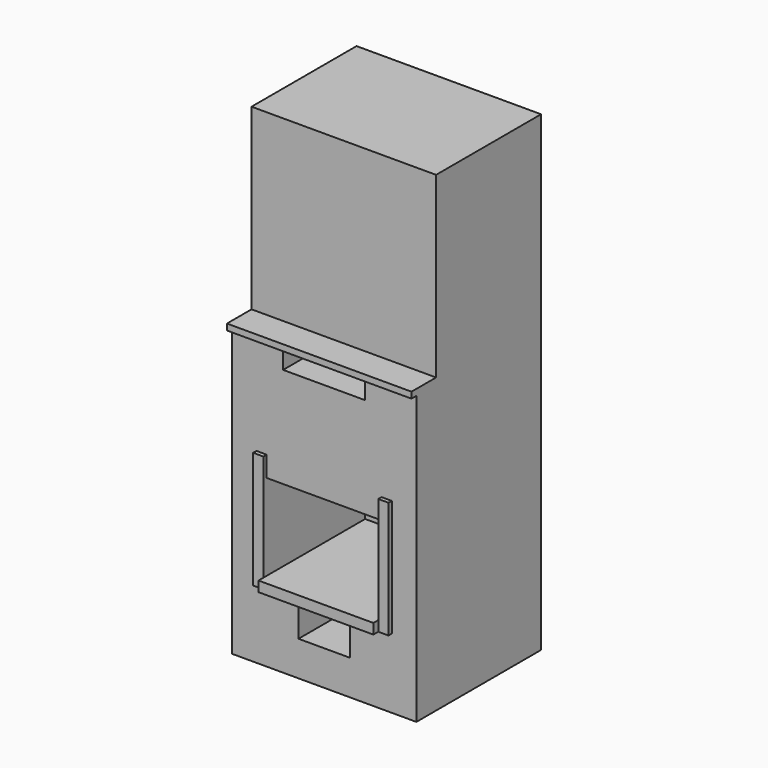
from build123d import *

# Parameters (mm, degrees)
F0_W      = 900
F0_H      = 760
F1_DEPTH  = 1400
F2_W      = 900
F2_H      = 640
F3_DEPTH  = 900
F4_W      = 900
F4_H      = 120
F4_H_2    = 30
F5_DEPTH  = 30
F7_DEPTH  = 20
F8_W      = 560
F8_H      = 50
F9_DEPTH  = 50
F10_W     = 250
F10_H     = 170
F11_DEPTH = 600
F12_W     = 560
F12_H     = 420
F13_DEPTH = 600
F14_W     = 400
F14_H     = 100
F15_DEPTH = 300


with BuildPart() as f1:
    # F0 (on Top) → F1 (new body)
    with BuildSketch(Plane.XY):
        with Locations((-172.5741102403, -380)):
            Rectangle(F0_W, F0_H)
    extrude(amount=F1_DEPTH)

    # F2 (on face) → F3 (join)
    with BuildSketch(Plane.XY.offset(1400)):
        with Locations((-172.5741102403, -320)):
            Rectangle(F2_W, F2_H)
    extrude(amount=F3_DEPTH)

    # F4 (on face) → F5 (join)
    with BuildSketch(Plane.XY.offset(1400)):
        with Locations((-172.5741102403, -700)):
            Rectangle(F4_W, F4_H)
        with Locations((-172.5741102403, -775)):
            Rectangle(F4_W, F4_H_2)
    extrude(amount=F5_DEPTH)

    # F6 (on face) → F7 (join)
    with BuildSketch(Plane.XZ.offset(760)):
        Polygon((-452.5741102403, 340), (-452.5741102403, 390), (-452.5741102403, 810), (-452.5741102403, 910), (-502.5741102403, 910), (-502.5741102403, 340), align=None)
        Polygon((107.4258897597, 810), (107.4258897597, 390), (107.4258897597, 340), (157.4258897597, 340), (157.4258897597, 910), (107.4258897597, 910), align=None)
    extrude(amount=F7_DEPTH)

    # F8 (on face) → F9 (join)
    with BuildSketch(Plane.XZ.offset(760)):
        with Locations((-172.5741102403, 365)):
            Rectangle(F8_W, F8_H)
    extrude(amount=F9_DEPTH)

    # F10 (on face) → F11 (cut)
    with BuildSketch(Plane.XZ.offset(760)):
        with Locations((-172.5741102403, 255)):
            Rectangle(F10_W, F10_H)
    extrude(amount=-F11_DEPTH, mode=Mode.SUBTRACT)

    # F12 (on face) → F13 (cut)
    with BuildSketch(Plane.XZ.offset(760)):
        with Locations((-172.5741102403, 600)):
            Rectangle(F12_W, F12_H)
    extrude(amount=-F13_DEPTH, mode=Mode.SUBTRACT)

    # F14 (on face) → F15 (cut)
    with BuildSketch(Plane.XZ.offset(760)):
        with Locations((-172.5741102403, 1350)):
            Rectangle(F14_W, F14_H)
    extrude(amount=-F15_DEPTH, mode=Mode.SUBTRACT)


solid = f1.part
